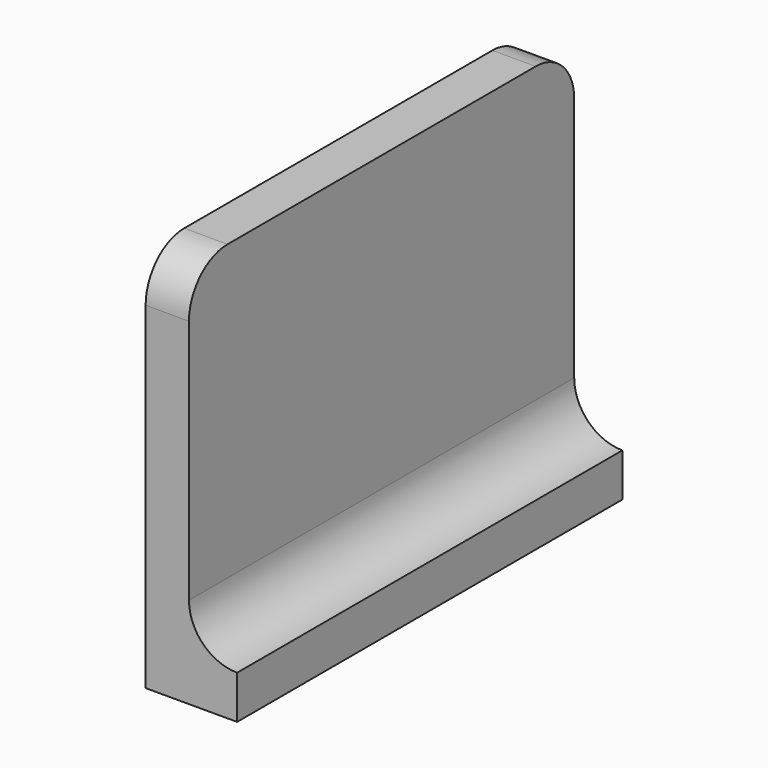
from build123d import *

# Parameters (mm, degrees)
F1_DEPTH = 50
F2_R     = 5
F3_R     = 5
F5_DEPTH = 2.1


with BuildPart() as f1:
    # F0 (on Front) → F1 (new body)
    with BuildSketch(Plane.XZ):
        with BuildLine():
            Line((-24.7697359324, 0), (-15.2697359324, 0))
            Line((-15.2697359324, 0), (-15.2697359324, 4.5))
            ThreePointArc((-15.2697359324, 4.5), (-18.8052698383, 5.9644660941), (-20.2697359324, 9.5))
            Line((-20.2697359324, 9.5), (-20.2697359324, 40))
            Line((-20.2697359324, 40), (-24.7697359324, 40))
            Line((-24.7697359324, 40), (-24.7697359324, 0))
        make_face()
    extrude(amount=F1_DEPTH)

    # F2
    f2_edges = [f1.edges().sort_by_distance(p)[0] for p in [
        (-22.519736, -50, 40),
    ]]
    fillet(f2_edges, radius=F2_R)

    # F3
    f3_edges = [f1.edges().sort_by_distance(p)[0] for p in [
        (-22.519736, 0, 40),
    ]]
    fillet(f3_edges, radius=F3_R)

    # F4 (on face) → F5 (cut)
    with BuildSketch(Plane(origin=(-24.7697359324, 0, 0), x_dir=(0, -1, 0), z_dir=(-1, 0, 0))):
        with BuildLine():
            Line((46.8955885446, 23.8107649305), (42.5171071131, 36.1752150642))
            ThreePointArc((42.5171071131, 36.1752150642), (41.1165449237, 37.7616933331), (39.0073708388, 37.93452974))
            Line((39.0073708388, 37.93452974), (33.9392572641, 36.3604687154))
            ThreePointArc((33.9392572641, 36.3604687154), (32.1739564338, 34.3397574907), (32.4926399743, 31.675549977))
            add(Edge.make_bspline(
                [(32.4926399743, 31.675549977), (33.3670492771, 30.3381403961), (35.0987739091, 27.6894664778), (35.7199990478, 23.1066149427), (35.2211127015, 18.2107984297), (33.4472667585, 15.4309330693), (32.5552672148, 14.0330446884)],
                knots=[0, 0, 0, 0, 0.2493081883, 0.4937426091, 0.7454224458, 1, 1, 1, 1], degree=3))
            ThreePointArc((32.5552672148, 14.0330446884), (32.5347631708, 11.4606329376), (34.2782102525, 9.5690423623))
            Line((34.2782102525, 9.5690423623), (39.1331128776, 7.7970703132))
            ThreePointArc((39.1331128776, 7.7970703132), (41.2400733133, 8.0993579825), (42.6161779425, 9.723241033))
            Line((42.6161779425, 9.723241033), (46.8955885446, 21.8079237751))
            ThreePointArc((46.8955885446, 21.8079237751), (47.0676640713, 22.8093443528), (46.8955885446, 23.8107649305))
        make_face()
        with BuildLine():
            ThreePointArc((3.1705893979, 23.8107653384), (2.9985138712, 22.8093447607), (3.1705893979, 21.807924183))
            Line((3.1705893979, 21.807924183), (7.45, 9.723241441))
            ThreePointArc((7.45, 9.723241441), (8.8261046292, 8.0993583904), (10.9330650649, 7.7970707212))
            Line((10.9330650649, 7.7970707212), (15.78796769, 9.5690427702))
            ThreePointArc((15.78796769, 9.5690427702), (17.5314147718, 11.4606333455), (17.5109107277, 14.0330450963))
            add(Edge.make_bspline(
                [(17.5735379682, 31.6755503849), (16.6991286655, 30.3381408041), (14.9674040335, 27.6894668857), (14.3461788947, 23.1066153507), (14.8450652411, 18.2107988376), (16.618911184, 15.4309334772), (17.5109107277, 14.0330450963)],
                knots=[0, 0, 0, 0, 0.2493081883, 0.4937426091, 0.7454224458, 1, 1, 1, 1], degree=3))
            ThreePointArc((17.5735379682, 31.6755503849), (17.8922215087, 34.3397578986), (16.1269206784, 36.3604691233))
            Line((16.1269206784, 36.3604691233), (11.0588071037, 37.9345301479))
            ThreePointArc((11.0588071037, 37.9345301479), (8.9496330188, 37.7616937411), (7.5490708294, 36.1752154721))
            Line((7.5490708294, 36.1752154721), (3.1705893979, 23.8107653384))
        make_face()
    extrude(amount=-F5_DEPTH, mode=Mode.SUBTRACT)


solid = f1.part
